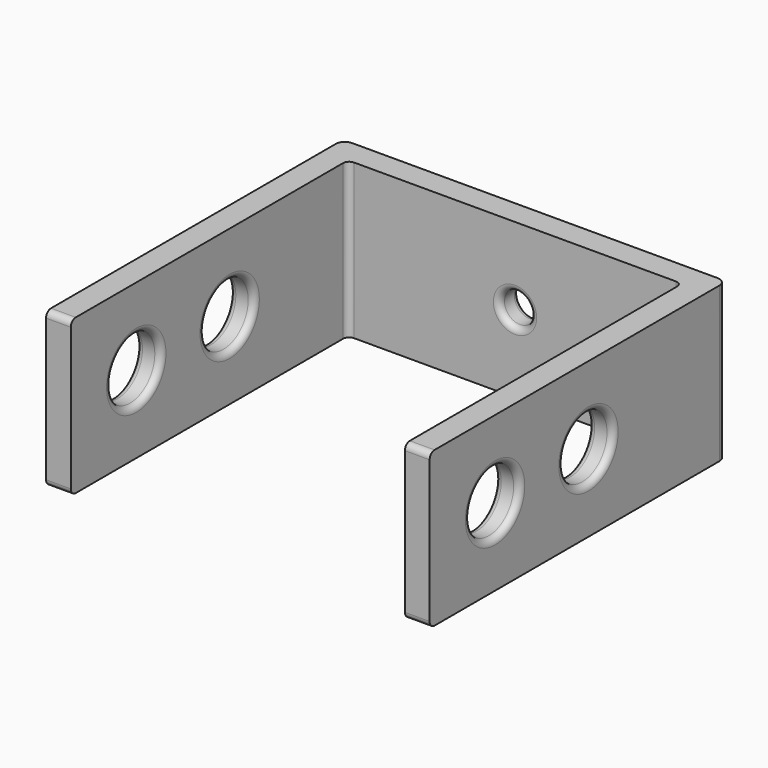
from build123d import *

# Parameters (mm, degrees)
F1_DEPTH = 25
F2_R     = 5
F3_DEPTH = 62.001
F4_R     = 2.5
F5_DEPTH = 60.001
F6_R     = 1.4485281374
F7_R     = 1


with BuildPart() as f1:
    # F0 (on Top) → F1 (new body)
    with BuildSketch(Plane.XY):
        Polygon((0, 0), (0, -60), (4, -60), (4, -4), (58, -4), (58, -60), (62, -60), (62, 0), align=None)
    extrude(amount=F1_DEPTH)

    # F2 (on face) → F3 (cut, through all)
    with BuildSketch(Plane.YZ.offset(62)):
        with Locations((-46.7792116106, 12.5)):
            Circle(F2_R)
        with Locations((-27.9059745371, 12.5)):
            Circle(F2_R)
    extrude(amount=-F3_DEPTH, mode=Mode.SUBTRACT)

    # F4 (on face) → F5 (cut, through all)
    with BuildSketch(Plane(origin=(0, 0, 0), x_dir=(-1, 0, 0), z_dir=(0, 1, 0))):
        with Locations((-31, 12.5)):
            Circle(F4_R)
    extrude(amount=-F5_DEPTH, mode=Mode.SUBTRACT)

    # F6
    f6_edges = [f1.edges().sort_by_distance(p)[0] for p in [
        (62, 0, 12.5),
        (0, 0, 12.5),
    ]]
    fillet(f6_edges, radius=F6_R)

    # F7
    f7_edges = [f1.edges().sort_by_distance(p)[0] for p in [
        (4, -4, 12.5),
        (58, -4, 12.5),
        (62, -32.905975, 12.5),
        (62, -51.779212, 12.5),
        (58, -51.779212, 12.5),
        (58, -32.905975, 12.5),
        (0, -32.905975, 12.5),
        (4, -32.905975, 12.5),
        (4, -51.779212, 12.5),
        (0, -51.779212, 12.5),
        (33.5, 0, 12.5),
        (33.5, -4, 12.5),
        (2, -60, 25),
        (60, -60, 25),
        (60, -60, 0),
        (2, -60, 0),
    ]]
    fillet(f7_edges, radius=F7_R)


solid = f1.part
